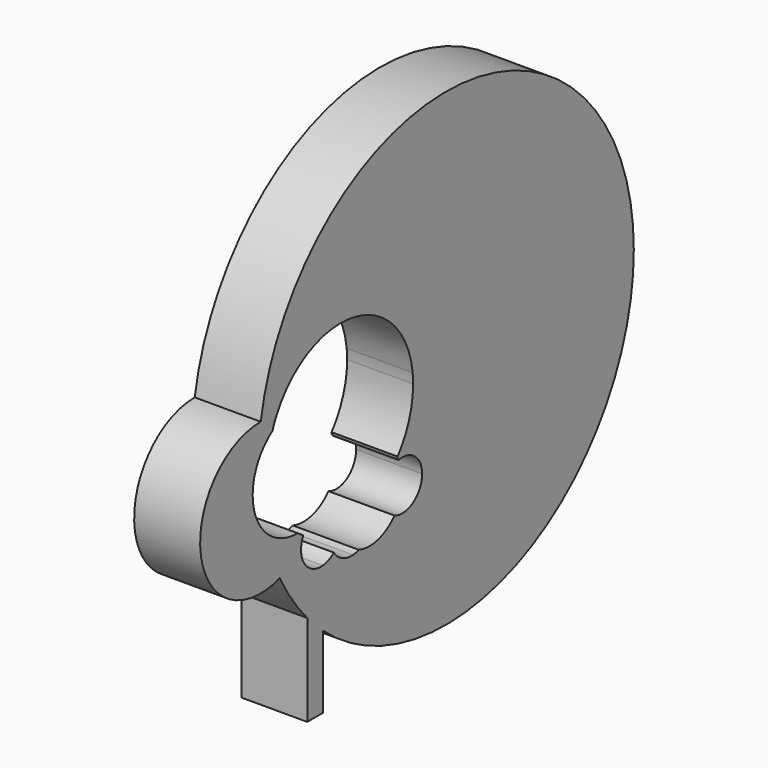
from build123d import *

# Parameters (mm, degrees)
F1_DEPTH = 25.4


with BuildPart() as f1:
    # F0 (on Right) → F1 (new body)
    with BuildSketch(Plane.YZ):
        with BuildLine():
            Line((-22.8805579245, -22.7664159755), (-22.8805579245, -57.9928606749))
            Line((-22.8805579245, -57.9928606749), (-15.3976082802, -57.9928606749))
            Line((-15.3976082802, -57.9928606749), (-15.3976082802, -30.0726670171))
            ThreePointArc((-15.3976082802, -30.0726670171), (-19.2448601213, -26.5278766879), (-22.8805579245, -22.7664159755))
        make_face()
        with BuildLine():
            ThreePointArc((-36.1290082754, -3.8675027801), (-30.1105807858, -13.7416335631), (-22.8805579245, -22.7664159755))
            Line((-22.8805579245, -22.7664159755), (-22.8805579245, -5.4353086614))
            ThreePointArc((-22.8805579245, -5.4353086614), (-25.2060971884, -1.990536454), (-25.8564343771, 2.1145396683))
            ThreePointArc((-25.8564343771, 2.1145396683), (-30.6840356791, -1.4065674169), (-36.1290082754, -3.8675027801))
        make_face()
        with BuildLine():
            ThreePointArc((-45.277106552, 52.8451455313), (-74.0603906155, 19.1080787818), (-36.1290082754, -3.8675027801))
            ThreePointArc((-36.1290082754, -3.8675027801), (-40.2966096051, 5.2739283062), (-43.4237891642, 14.8214626034))
            ThreePointArc((-43.4237891642, 14.8214626034), (-48.9964160146, 26.897956874), (-46.4641223034, 39.9548850136))
            ThreePointArc((-46.4641223034, 39.9548850136), (-46.1017075688, 46.4212957732), (-45.277106552, 52.8451455313))
        make_face()
        with BuildLine():
            Line((-22.8805579245, -5.4353086614), (-22.8805579245, -22.7664159755))
            ThreePointArc((-22.8805579245, -22.7664159755), (-19.2448601213, -26.5278766879), (-15.3976082802, -30.0726670171))
            Line((-15.3976082802, -30.0726670171), (-15.3976082802, -8.0253607773))
            ThreePointArc((-15.3976082802, -8.0253607773), (-19.4187756139, -7.5383976022), (-22.8805579245, -5.4353086614))
        make_face()
        with BuildLine():
            ThreePointArc((-37.6985580456, 51.8270156729), (-41.4542478809, 52.5860694794), (-45.277106552, 52.8451455313))
            ThreePointArc((-45.277106552, 52.8451455313), (-46.1017075688, 46.4212957732), (-46.4641223034, 39.9548850136))
            ThreePointArc((-46.4641223034, 39.9548850136), (-43.4730918643, 44.1250016569), (-39.5852366825, 47.474735675))
            ThreePointArc((-39.5852366825, 47.474735675), (-38.7160866571, 49.6830361403), (-37.6985580456, 51.8270156729))
        make_face()
        with BuildLine():
            ThreePointArc((-43.4237891642, 14.8214626034), (-40.2966096051, 5.2739283062), (-36.1290082754, -3.8675027801))
            ThreePointArc((-36.1290082754, -3.8675027801), (-30.6840356791, -1.4065674169), (-25.8564343771, 2.1145396683))
            ThreePointArc((-25.8564343771, 2.1145396683), (-25.5163637625, 4.1239695154), (-24.7595102264, 6.0162245347))
            ThreePointArc((-24.7595102264, 6.0162245347), (-26.1371840828, 6.8924645223), (-27.4722746733, 7.8323128533))
            ThreePointArc((-27.4722746733, 7.8323128533), (-36.1811250997, 9.6537304893), (-43.4237891642, 14.8214626034))
        make_face()
        with BuildLine():
            Line((-15.3976082802, -8.0253607773), (-15.3976082802, -30.0726670171))
            ThreePointArc((-15.3976082802, -30.0726670171), (81.3685508669, -44.1009938677), (134.2632217545, 38.1342619658))
            ThreePointArc((134.2632217545, 38.1342619658), (51.2704704846, 128.2052611604), (-45.277106552, 52.8451455313))
            ThreePointArc((-45.277106552, 52.8451455313), (-41.4542478809, 52.5860694794), (-37.6985580456, 51.8270156729))
            ThreePointArc((-37.6985580456, 51.8270156729), (-0.4432478699, 70.0792033475), (27.8432110431, 39.7316048698))
            ThreePointArc((27.8432110431, 39.7316048698), (56.2702105218, 30.9904843235), (68.5100917864, 3.8853778969))
            ThreePointArc((68.5100917864, 3.8853778969), (39.6372370921, -31.5098645214), (-0.8370252167, -10.336791655))
            ThreePointArc((-0.8370252167, -10.336791655), (-6.0781786291, -9.3223624176), (-10.0928384047, -5.8036605751))
            ThreePointArc((-10.0928384047, -5.8036605751), (-12.5748209934, -7.3213816154), (-15.3976082802, -8.0253607773))
        make_face()
        with BuildLine():
            ThreePointArc((1.9137445003, -9.7472674078), (0.558740927, -10.1371303225), (-0.8370252167, -10.336791655))
            ThreePointArc((-0.8370252167, -10.336791655), (39.6372370921, -31.5098645214), (68.5100917864, 3.8853778969))
            ThreePointArc((68.5100917864, 3.8853778969), (56.2702105218, 30.9904843235), (27.8432110431, 39.7316048698))
            ThreePointArc((27.8432110431, 39.7316048698), (28.0074467559, 37.7847839297), (28.0622494863, 35.8318164945))
            ThreePointArc((28.0622494863, 35.8318164945), (26.1412305096, 24.4251830851), (20.5901041712, 14.2769519082))
            ThreePointArc((20.5901041712, 14.2769519082), (20.6380886941, 13.9210160561), (20.6769120054, 13.5639648052))
            ThreePointArc((20.6769120054, 13.5639648052), (20.8650675932, 13.24447129), (21.0457330933, 12.9206833832))
            ThreePointArc((21.0457330933, 12.9206833832), (28.9159774204, 10.9365568541), (32.3825042542, 3.597572213))
            ThreePointArc((32.3825042542, 3.597572213), (28.0844870819, -4.352654537), (19.0786813985, -5.1106261617))
            ThreePointArc((19.0786813985, -5.1106261617), (11.203643005, -10.0478667355), (1.9137445003, -9.7472674078))
        make_face()
    extrude(amount=F1_DEPTH)


solid = f1.part
